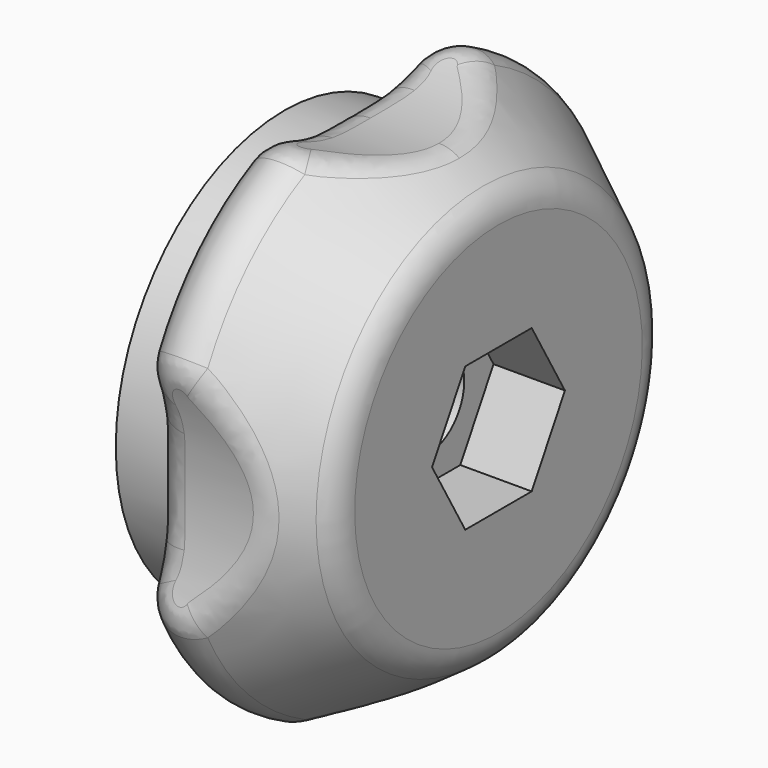
from build123d import *

# Parameters (mm, degrees)
POCKET011_DEPTH = 15.001
POCKET012_DEPTH = 4
FILLET008_R     = 2.2
SKETCH047_R     = 24.381781
POCKET017_DEPTH = 2.418053
FILLET013_R     = 2
FILLET014_R     = 2


with BuildPart() as part:
    # Sketch031 → Revolution (revolve)
    with BuildSketch(Plane.XZ):
        Polygon((0, 2.6), (0, 6.8), (-6, 6.8), (-6, 11.8), (-3, 11.8), (-3, 18), (9, 18), (9, 10), (6, 7), (6, 2.6), align=None)
    revolve(axis=Axis((0, 0, 0), (1, 0, 0)))

    # Sketch032 (on Face7 of Revolution) → Pocket011 (cut, through all)
    with BuildSketch(Plane(origin=(9, 0, 0), x_dir=(0, 0, 1), z_dir=(1, 0, 0))):
        with BuildLine():
            ThreePointArc((17, 35), (0, 52), (-17, 35))
            Line((-17, 35), (-17, 30))
            ThreePointArc((-17, 30), (0, 13), (17, 30))
            Line((17, 35), (17, 30))
        make_face()
        with BuildLine():
            ThreePointArc((30, 17), (13, 0), (30, -17))
            Line((30, -17), (35, -17))
            ThreePointArc((35, -17), (52, 0), (35, 17))
            Line((30, 17), (35, 17))
        make_face()
        with BuildLine():
            ThreePointArc((17, -30), (0, -13), (-17, -30))
            Line((-17, -30), (-17, -35))
            ThreePointArc((-17, -35), (0, -52), (17, -35))
            Line((17, -30), (17, -35))
        make_face()
        with BuildLine():
            ThreePointArc((-30, -17), (-13, 0), (-30, 17))
            Line((-30, 17), (-35, 17))
            ThreePointArc((-35, 17), (-52, 0), (-35, -17))
            Line((-30, -17), (-35, -17))
        make_face()
    extrude(amount=-POCKET011_DEPTH, mode=Mode.SUBTRACT)

    # Sketch033 (on Face4 of Pocket011) → Pocket012 (cut)
    with BuildSketch(Plane(origin=(6, 0, 0), x_dir=(0, 0, 1), z_dir=(1, 0, 0))):
        Polygon((0, 4.653443), (-4.03, 2.326722), (-4.03, -2.326722), (0, -4.653443), (4.03, -2.326722), (4.03, 2.326722), align=None)
    extrude(amount=-POCKET012_DEPTH, mode=Mode.SUBTRACT)

    # Sketch034 → Groove001003 (revolve, cut)
    with BuildSketch(Plane.XZ):
        Polygon((11.789354, 7.055742), (-5.551485, 19.197929), (-5.551485, 26.301854), (11.789354, 26.301854), align=None)
    revolve(axis=Axis((0, 0, 0), (1, 0, 0)), mode=Mode.SUBTRACT)

    # Fillet008
    fillet008_edges = [part.edges().sort_by_distance(p)[0] for p in [
        (-3, -12.31169, -12.31169),
        (-3, 12.31169, -12.31169),
        (-3, -12.31169, 12.31169),
        (-3, 12.31169, 12.31169),
    ]]
    fillet(fillet008_edges, radius=FILLET008_R)

    # Sketch047 (on Face15 of Fillet008) → Pocket017 (cut, through all)
    with BuildSketch(Plane(origin=(6, 0, 0), x_dir=(0, 0, 1), z_dir=(1, 0, 0))):
        Circle(SKETCH047_R)
    extrude(amount=POCKET017_DEPTH, mode=Mode.SUBTRACT)

    # Fillet013
    fillet013_edges = [part.edges().sort_by_distance(p)[0] for p in [
        (6, 0, -11.109492),
    ]]
    fillet(fillet013_edges, radius=FILLET013_R)

    # Fillet014
    fillet014_edges = [part.edges().sort_by_distance(p)[0] for p in [
        (3.300074, 13, 0),
        (-2.44153, 13.760331, 5.027241),
        (-2.44153, 13.760331, -5.027241),
        (-3, 13, 0),
        (2.410366, -3.05321, 13.276427),
        (-2.44153, -5.027241, 13.760331),
        (2.410366, 3.05321, 13.276427),
        (-3, 0, 13),
        (-2.44153, 5.027241, 13.760331),
        (3.300074, -13, 0),
        (-2.44153, -13.760331, -5.027241),
        (-2.44153, -13.760331, 5.027241),
        (-3, -13, 0),
        (2.410366, 3.05321, -13.276427),
        (-2.44153, 5.027241, -13.760331),
        (2.410366, -3.05321, -13.276427),
        (-3, 0, -13),
        (-2.44153, -5.027241, -13.760331),
    ]]
    fillet(fillet014_edges, radius=FILLET014_R)


with BuildPart() as part_1:
    # Body010 placement: moved
    add(part.part.moved(Location((93, 0, 10))))


solid = part_1.part
